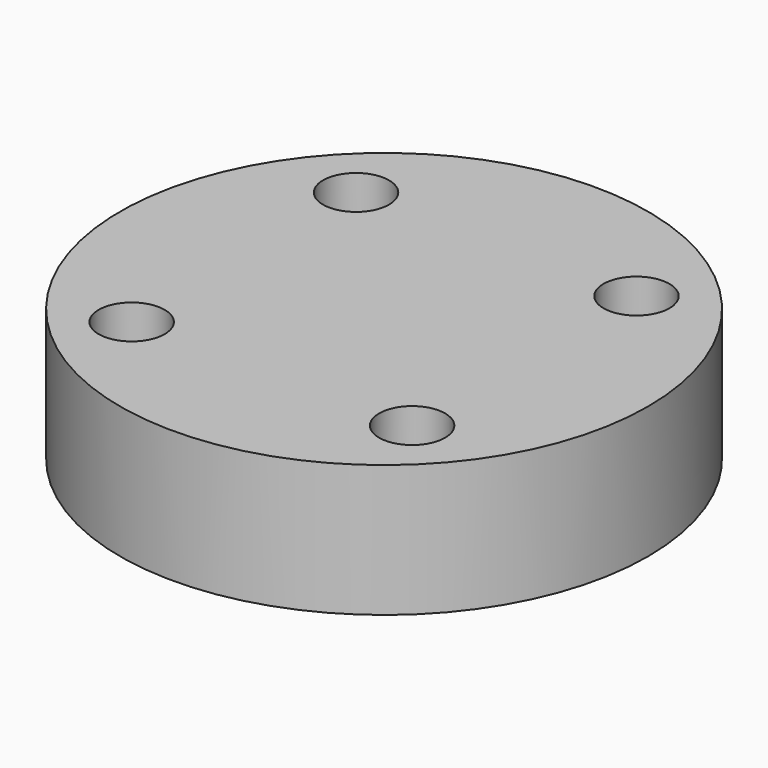
from build123d import *

# Parameters (mm, degrees)
CYLINDER970_R     = 1
CYLINDER970_DEPTH = 20
CYLINDER971_R     = 1
CYLINDER971_DEPTH = 20
CYLINDER965_R     = 1
CYLINDER965_DEPTH = 20
CYLINDER975_R     = 1
CYLINDER975_DEPTH = 20
CYLINDER974_R     = 8
CYLINDER974_DEPTH = 4


with BuildPart() as obj1:
    # Cylinder970 → Cylinder970 (new body)
    with BuildSketch(Plane(origin=(4.25, -4.25, -88), x_dir=(0, 1, 0), z_dir=(0, 0, 1))):
        Circle(CYLINDER970_R)
    extrude(amount=CYLINDER970_DEPTH)


with BuildPart() as obj2:
    # Cylinder971 → Cylinder971 (new body)
    with BuildSketch(Plane(origin=(4.25, 4.25, -88), x_dir=(-1, 0, 0), z_dir=(0, 0, 1))):
        Circle(CYLINDER971_R)
    extrude(amount=CYLINDER971_DEPTH)


with BuildPart() as obj3:
    # Cylinder965 → Cylinder965 (new body)
    with BuildSketch(Plane(origin=(-4.25, 4.25, -88), x_dir=(0, -1, 0), z_dir=(0, 0, 1))):
        Circle(CYLINDER965_R)
    extrude(amount=CYLINDER965_DEPTH)


with BuildPart() as compound808:
    # Cylinder975 → Cylinder975 (new body)
    with BuildSketch(Plane(origin=(-4.25, -4.25, -88), x_dir=(1, 0, 0), z_dir=(0, 0, 1))):
        Circle(CYLINDER975_R)
    extrude(amount=CYLINDER975_DEPTH)

    # Compound808: union obj1, obj2, obj3
    add(obj1.part)
    add(obj2.part)
    add(obj3.part)


with BuildPart() as compound808_1:
    # Compound808 placement: moved
    add(compound808.part.moved(Location((0, 0, 91))))


with BuildPart() as cut090:
    # Cylinder974 → Cylinder974 (new body)
    with BuildSketch(Plane.XY.offset(15)):
        Circle(CYLINDER974_R)
    extrude(amount=CYLINDER974_DEPTH)

    # Cut090: cut Compound808
    add(compound808_1.part, mode=Mode.SUBTRACT)


solid = cut090.part
